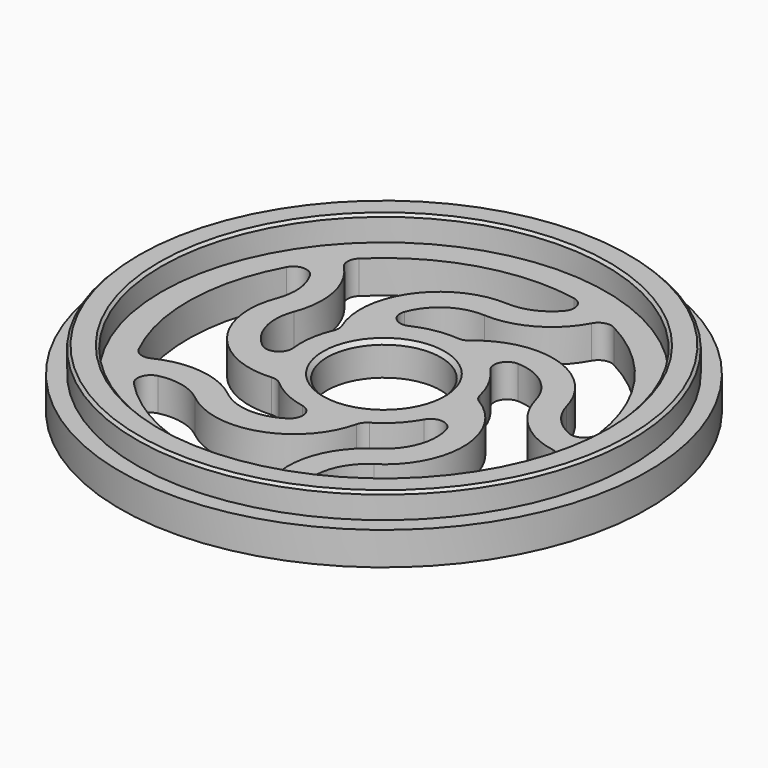
from build123d import *

# Parameters (mm, degrees)
F3_DEPTH = 25.4


with BuildPart() as f1:
    # F0 (on Front) → F1 (revolve)
    with BuildSketch(Plane.XZ):
        Polygon((-25.4, 0), (-5.4737, 0), (-5.4737, 2.794), (-5.8547, 3.175), (-21.3995, 3.175), (-21.3995, 5.334), (-21.6535, 5.588), (-23.5585, 5.588), (-23.8125, 5.334), (-23.8125, 3.175), (-25.4, 3.175), align=None)
    revolve(axis=Axis((0, 0, 7.17671), (0, 0, 1)))

    # F2 (on face) → F3 (cut)
    with BuildSketch(Plane.XY.offset(3.175)):
        with BuildLine():
            ThreePointArc((-7.956627, -0.95471), (-7.931805, 1.142742), (-7.363544, 3.1619))
            ThreePointArc((-7.363544, 3.1619), (-7.260521, 3.657138), (-7.358972, 4.153304))
            ThreePointArc((-7.358972, 4.153304), (-6.561517, 11.480324), (0.065952, 14.704886))
            ThreePointArc((0.065952, 14.704886), (2.327191, 15.1072), (4.180137, 16.464274))
            ThreePointArc((4.180137, 16.464274), (4.415643, 17.713968), (3.449856, 18.541285))
            ThreePointArc((3.449856, 18.541285), (-5.482341, 18.045073), (-13.180977, 13.488609))
            ThreePointArc((-13.180977, 13.488609), (-13.563205, 12.600734), (-13.209763, 11.701011))
            ThreePointArc((-13.209763, 11.701011), (-11.238972, 7.93406), (-11.593134, 3.697492))
            ThreePointArc((-11.593134, 3.697492), (-11.749757, 0.538425), (-10.006841, -2.100984))
            ThreePointArc((-10.006841, -2.100984), (-8.597816, -2.214519), (-7.956627, -0.95471))
        make_face()
        with BuildLine():
            ThreePointArc((-1.55075, -7.862224), (-3.537875, -7.190468), (-5.282606, -6.026065))
            ThreePointArc((-5.282606, -6.026065), (-5.721769, -5.775048), (-6.224075, -5.715357))
            ThreePointArc((-6.224075, -5.715357), (-12.946057, -2.692759), (-13.964798, 4.606784))
            ThreePointArc((-13.964798, 4.606784), (-13.64866, 6.881671), (-14.366722, 9.063287))
            ThreePointArc((-14.366722, 9.063287), (-15.482476, 9.673443), (-16.567745, 9.01058))
            ThreePointArc((-16.567745, 9.01058), (-18.856021, 0.362218), (-16.901576, -8.367645))
            ThreePointArc((-16.901576, -8.367645), (-16.17527, -9.005534), (-15.210364, -8.94742))
            ThreePointArc((-15.210364, -8.94742), (-11.018773, -8.237138), (-7.098999, -9.883138))
            ThreePointArc((-7.098999, -9.883138), (-4.142947, -11.0083), (-1.09413, -10.166311))
            ThreePointArc((-1.09413, -10.166311), (-0.550739, -8.861333), (-1.55075, -7.862224))
        make_face()
        with BuildLine():
            ThreePointArc((-3.366716, 7.272181), (-1.36425, 7.896721), (0.731685, 7.980227))
            ThreePointArc((0.731685, 7.980227), (1.23452, 8.035284), (1.67598, 8.28224))
            ThreePointArc((1.67598, 8.28224), (8.890816, 9.787989), (14.005558, 4.481336))
            ThreePointArc((14.005558, 4.481336), (15.086943, 2.455092), (16.950188, 1.112194))
            ThreePointArc((16.950188, 1.112194), (18.211493, 1.274391), (18.699874, 2.448564))
            ThreePointArc((18.699874, 2.448564), (15.467748, 10.790251), (8.755284, 16.704064))
            ThreePointArc((8.755284, 16.704064), (7.792749, 16.793215), (7.046282, 16.179043))
            ThreePointArc((7.046282, 16.179043), (4.072706, 13.140657), (-0.065952, 12.168314))
            ThreePointArc((-0.065952, 12.168314), (-3.118802, 11.341065), (-5.090438, 8.867832))
            ThreePointArc((-5.090438, 8.867832), (-4.763004, 7.492685), (-3.366716, 7.272181))
        make_face()
        with BuildLine():
            ThreePointArc((5.875882, 5.449165), (7.088652, 3.7377), (7.81575, 1.770152))
            ThreePointArc((7.81575, 1.770152), (8.023497, 1.308941), (8.394785, 0.965402))
            ThreePointArc((8.394785, 0.965402), (12.056344, -5.431014), (8.589959, -11.935269))
            ThreePointArc((8.589959, -11.935269), (6.997053, -13.58987), (6.295656, -15.7769))
            ThreePointArc((6.295656, -15.7769), (6.839679, -16.926351), (8.107302, -17.027989))
            ThreePointArc((8.107302, -17.027989), (15.041935, -11.376332), (18.59204, -3.16493))
            ThreePointArc((18.59204, -3.16493), (18.379389, -2.221956), (17.564605, -1.701813))
            ThreePointArc((17.564605, -1.701813), (13.756043, 0.187313), (11.552374, 3.82294))
            ThreePointArc((11.552374, 3.82294), (9.822231, 6.470739), (6.860777, 7.581605))
            ThreePointArc((6.860777, 7.581605), (5.654118, 6.845253), (5.875882, 5.449165))
        make_face()
        with BuildLine():
            ThreePointArc((6.998211, -3.904412), (5.745278, -5.586696), (4.098714, -6.886213))
            ThreePointArc((4.098714, -6.886213), (3.724274, -7.226314), (3.512283, -7.685589))
            ThreePointArc((3.512283, -7.685589), (-1.439586, -13.14454), (-8.696672, -11.857737))
            ThreePointArc((-8.696672, -11.857737), (-10.762526, -10.854093), (-13.059259, -10.862855))
            ThreePointArc((-13.059259, -10.862855), (-13.984339, -11.735451), (-13.689286, -12.97244))
            ThreePointArc((-13.689286, -12.97244), (-6.171321, -17.82121), (2.735229, -18.660098))
            ThreePointArc((2.735229, -18.660098), (3.566338, -18.166459), (3.809241, -17.230821))
            ThreePointArc((3.809241, -17.230821), (4.428996, -13.024891), (7.205711, -9.805607))
            ThreePointArc((7.205711, -9.805607), (9.189274, -7.341929), (9.330632, -4.182142))
            ThreePointArc((9.330632, -4.182142), (8.257441, -3.262086), (6.998211, -3.904412))
        make_face()
    extrude(amount=-F3_DEPTH, mode=Mode.SUBTRACT)


solid = f1.part
